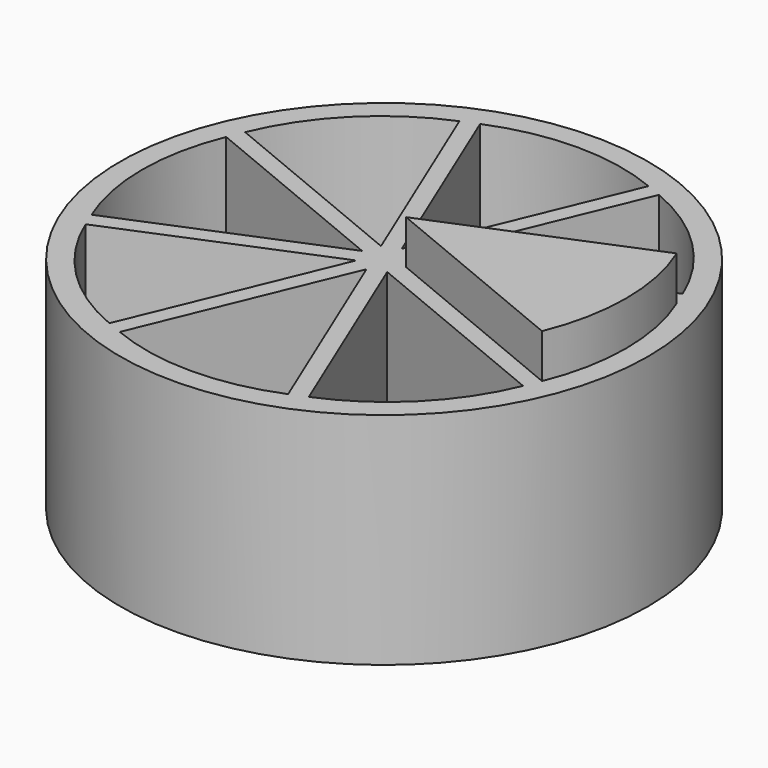
from build123d import *

# Parameters (mm, degrees)
CYLINDER001_W               = 10
CYLINDER001_H               = 10
CYLINDER001_ANGLE           = 45
CYLINDER001_PLACEMENT_ANGLE = 337.5
ARRAY_COUNT                 = 8
CYLINDER_R                  = 12
CYLINDER_DEPTH              = 10
CYLINDER002_W               = 10
CYLINDER002_H               = 10
CYLINDER002_ANGLE           = 45
CYLINDER002_PLACEMENT_ANGLE = 337.5


with BuildPart() as array:
    # Cylinder001 → Cylinder001 (revolve)
    with BuildSketch(Plane.XZ):
        with Locations((5, 5)):
            Rectangle(CYLINDER001_W, CYLINDER001_H)
    revolve(axis=Axis((0, 0, 0), (0, 0, 1)), revolution_arc=CYLINDER001_ANGLE)


with BuildPart() as array_1:
    # Cylinder001 placement: moved
    add(array.part.moved(Location((1, 0, 2))).rotate(Axis((1, 0, 2), (0, 0, 1)), CYLINDER001_PLACEMENT_ANGLE))

    # Array: Array ×8 about axis
    array_axis = Axis((0, 0, 0), (0, 0, 1))


with BuildPart() as array_2:
    add(array_1.part)
    for i in range(1, ARRAY_COUNT):
        add(array_1.part.rotate(array_axis, i * 360 / ARRAY_COUNT))


with BuildPart() as array_3:
    # Array placement: moved
    add(array_2.part.moved(Location((0, 0, -1))))


with BuildPart() as cut:
    # Cylinder → Cylinder (new body)
    with BuildSketch(Plane.XY):
        Circle(CYLINDER_R)
    extrude(amount=CYLINDER_DEPTH)

    # Cut: cut Array
    add(array_3.part, mode=Mode.SUBTRACT)


with BuildPart() as cilindre002:
    # Cylinder002 → Cylinder002 (revolve)
    with BuildSketch(Plane.XZ):
        with Locations((5, 5)):
            Rectangle(CYLINDER002_W, CYLINDER002_H)
    revolve(axis=Axis((0, 0, 0), (0, 0, 1)), revolution_arc=CYLINDER002_ANGLE)


with BuildPart() as cilindre002_1:
    # Cylinder002 placement: moved
    add(cilindre002.part.moved(Location((1, 0, 2))).rotate(Axis((1, 0, 2), (0, 0, 1)), CYLINDER002_PLACEMENT_ANGLE))


solid = Compound([cut.part, cilindre002_1.part])
